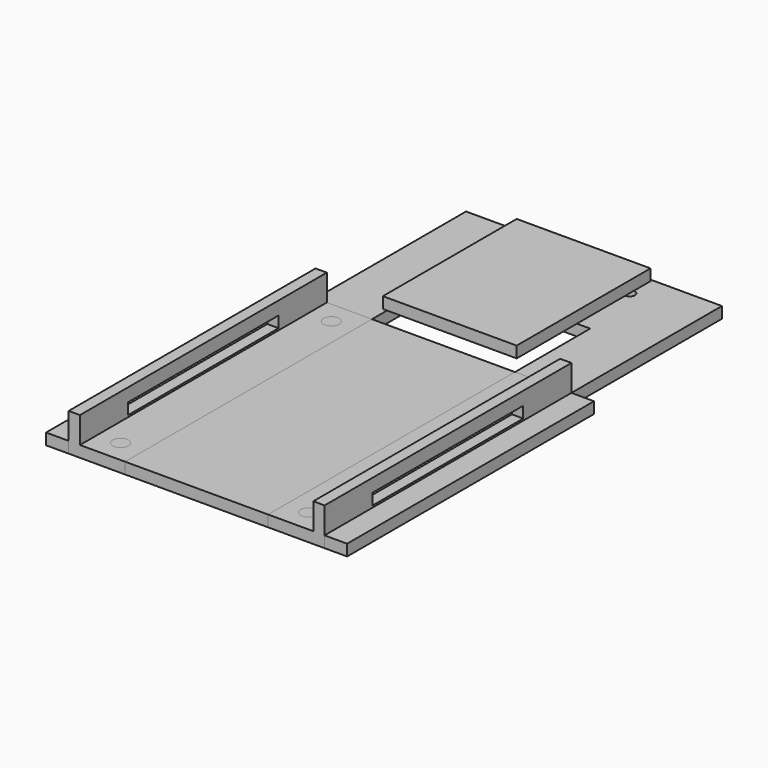
from build123d import *

# Parameters (mm, degrees)
BOX006_W          = 80
BOX006_H          = 82
BOX006_DEPTH      = 3
BOX008_W          = 35.56
BOX008_H          = 44.45
BOX008_DEPTH      = 3
BOX005_W          = 3
BOX005_H          = 50
BOX005_DEPTH      = 3
BOX003_W          = 3
BOX003_H          = 82
BOX003_DEPTH      = 10
CYLINDER001_R     = 2.1
CYLINDER001_DEPTH = 3
CYLINDER003_R     = 2.1
CYLINDER003_DEPTH = 3
BOX002_W          = 15
BOX002_H          = 82
BOX002_DEPTH      = 3
CYLINDER002_R     = 2.1
CYLINDER002_DEPTH = 3
CYLINDER_R        = 2.1
CYLINDER_DEPTH    = 3
BOX_W             = 15
BOX_H             = 82
BOX_DEPTH         = 3
BOX004_W          = 3
BOX004_H          = 50
BOX004_DEPTH      = 3
BOX001_W          = 3
BOX001_H          = 82
BOX001_DEPTH      = 10
CYLINDER007_R     = 1.397
CYLINDER007_DEPTH = 3
CYLINDER006_R     = 1.397
CYLINDER006_DEPTH = 3
BOX011_W          = 17
BOX011_H          = 17
BOX011_DEPTH      = 3
CYLINDER004_R     = 2.7
CYLINDER004_DEPTH = 3
CYLINDER005_R     = 2.7
CYLINDER005_DEPTH = 3
BOX012_W          = 5.2
BOX012_H          = 5.4
BOX012_DEPTH      = 3
BOX013_W          = 5.2
BOX013_H          = 5.4
BOX013_DEPTH      = 3
BOX007_W          = 15
BOX007_H          = 50
BOX007_DEPTH      = 3
BOX009_W          = 38
BOX009_H          = 25
BOX009_DEPTH      = 3
BOX010_W          = 15
BOX010_H          = 50
BOX010_DEPTH      = 3


with BuildPart() as g366:
    # Box006 → Box006 (new body)
    with BuildSketch(Plane(origin=(-6, 0, 0), x_dir=(1, 0, 0), z_dir=(0, 0, 1))):
        with Locations((40, 41)):
            Rectangle(BOX006_W, BOX006_H)
    extrude(amount=BOX006_DEPTH)


with BuildPart() as cam:
    # Box008 → Box008 (new body)
    with BuildSketch(Plane(origin=(16.3, 84, 5), x_dir=(1, 0, 0), z_dir=(0, 0, 1))):
        with Locations((17.78, 22.225)):
            Rectangle(BOX008_W, BOX008_H)
    extrude(amount=BOX008_DEPTH)


with BuildPart() as side2_cut:
    # Box005 → Box005 (new body)
    with BuildSketch(Plane(origin=(65, 16, 3.5), x_dir=(1, 0, 0), z_dir=(0, 0, 1))):
        with Locations((1.5, 25)):
            Rectangle(BOX005_W, BOX005_H)
    extrude(amount=BOX005_DEPTH)


with BuildPart() as cut003:
    # Box003 → Box003 (new body)
    with BuildSketch(Plane(origin=(65, 0, 0), x_dir=(1, 0, 0), z_dir=(0, 0, 1))):
        with Locations((1.5, 41)):
            Rectangle(BOX003_W, BOX003_H)
    extrude(amount=BOX003_DEPTH)

    # Cut003: cut side2_cut
    add(side2_cut.part, mode=Mode.SUBTRACT)


with BuildPart() as hole2:
    # Cylinder001 → Cylinder001 (new body)
    with BuildSketch(Plane(origin=(59, 76, 0), x_dir=(1, 0, 0), z_dir=(0, 0, 1))):
        Circle(CYLINDER001_R)
    extrude(amount=CYLINDER001_DEPTH)


with BuildPart() as fusion001:
    # Cylinder003 → Cylinder003 (new body)
    with BuildSketch(Plane(origin=(59, 6, 0), x_dir=(1, 0, 0), z_dir=(0, 0, 1))):
        Circle(CYLINDER003_R)
    extrude(amount=CYLINDER003_DEPTH)

    # Fusion001: union hole2
    add(hole2.part)


with BuildPart() as fusion005:
    # Box002 → Box002 (new body)
    with BuildSketch(Plane(origin=(53, 0, 0), x_dir=(1, 0, 0), z_dir=(0, 0, 1))):
        with Locations((7.5, 41)):
            Rectangle(BOX002_W, BOX002_H)
    extrude(amount=BOX002_DEPTH)

    # Cut001: cut Fusion001
    add(fusion001.part, mode=Mode.SUBTRACT)

    # Fusion005: union Cut003
    add(cut003.part)


with BuildPart() as hole3:
    # Cylinder002 → Cylinder002 (new body)
    with BuildSketch(Plane(origin=(9, 6, 0), x_dir=(1, 0, 0), z_dir=(0, 0, 1))):
        Circle(CYLINDER002_R)
    extrude(amount=CYLINDER002_DEPTH)


with BuildPart() as fusion:
    # Cylinder → Cylinder (new body)
    with BuildSketch(Plane(origin=(9, 76, 0), x_dir=(1, 0, 0), z_dir=(0, 0, 1))):
        Circle(CYLINDER_R)
    extrude(amount=CYLINDER_DEPTH)

    # Fusion: union hole3
    add(hole3.part)


with BuildPart() as cut:
    # Box → Box (new body)
    with BuildSketch(Plane.XY):
        with Locations((7.5, 41)):
            Rectangle(BOX_W, BOX_H)
    extrude(amount=BOX_DEPTH)

    # Cut: cut Fusion
    add(fusion.part, mode=Mode.SUBTRACT)


with BuildPart() as side1_cut:
    # Box004 → Box004 (new body)
    with BuildSketch(Plane(origin=(0, 16, 3.5), x_dir=(1, 0, 0), z_dir=(0, 0, 1))):
        with Locations((1.5, 25)):
            Rectangle(BOX004_W, BOX004_H)
    extrude(amount=BOX004_DEPTH)


with BuildPart() as fusion006:
    # Box001 → Box001 (new body)
    with BuildSketch(Plane.XY):
        with Locations((1.5, 41)):
            Rectangle(BOX001_W, BOX001_H)
    extrude(amount=BOX001_DEPTH)

    # Cut002: cut side1_cut
    add(side1_cut.part, mode=Mode.SUBTRACT)

    # Fusion006: union Cut
    add(cut.part)


with BuildPart() as cylinder007:
    # Cylinder007 → Cylinder007 (new body)
    with BuildSketch(Plane(origin=(49.508, 124.5, 0), x_dir=(1, 0, 0), z_dir=(0, 0, 1))):
        Circle(CYLINDER007_R)
    extrude(amount=CYLINDER007_DEPTH)


with BuildPart() as hole1:
    # Cylinder006 → Cylinder006 (new body)
    with BuildSketch(Plane(origin=(18.508, 124.5, 0), x_dir=(1, 0, 0), z_dir=(0, 0, 1))):
        Circle(CYLINDER006_R)
    extrude(amount=CYLINDER006_DEPTH)


with BuildPart() as obj1:
    # Box011 → Box011 (new body)
    with BuildSketch(Plane(origin=(25, 110, 0), x_dir=(1, 0, 0), z_dir=(0, 0, 1))):
        with Locations((8.5, 8.5)):
            Rectangle(BOX011_W, BOX011_H)
    extrude(amount=BOX011_DEPTH)


with BuildPart() as obj2:
    # Cylinder004 → Cylinder004 (new body)
    with BuildSketch(Plane(origin=(23, 118.5, 0), x_dir=(1, 0, 0), z_dir=(0, 0, 1))):
        Circle(CYLINDER004_R)
    extrude(amount=CYLINDER004_DEPTH)


with BuildPart() as obj3:
    # Cylinder005 → Cylinder005 (new body)
    with BuildSketch(Plane(origin=(44, 118.5, 0), x_dir=(1, 0, 0), z_dir=(0, 0, 1))):
        Circle(CYLINDER005_R)
    extrude(amount=CYLINDER005_DEPTH)


with BuildPart() as obj4:
    # Box012 → Box012 (new body)
    with BuildSketch(Plane(origin=(23, 115.8, 0), x_dir=(1, 0, 0), z_dir=(0, 0, 1))):
        with Locations((2.6, 2.7)):
            Rectangle(BOX012_W, BOX012_H)
    extrude(amount=BOX012_DEPTH)


with BuildPart() as fusion007:
    # Box013 → Box013 (new body)
    with BuildSketch(Plane(origin=(39, 115.8, 0), x_dir=(1, 0, 0), z_dir=(0, 0, 1))):
        with Locations((2.6, 2.7)):
            Rectangle(BOX013_W, BOX013_H)
    extrude(amount=BOX013_DEPTH)

    # Fusion007: union Cylinder007, Hole1, obj1, obj2, obj3, obj4
    add(cylinder007.part)
    add(hole1.part)
    add(obj1.part)
    add(obj2.part)
    add(obj3.part)
    add(obj4.part)


with BuildPart() as obj5:
    # Box007 → Box007 (new body)
    with BuildSketch(Plane(origin=(0, 82, 0), x_dir=(1, 0, 0), z_dir=(0, 0, 1))):
        with Locations((7.5, 25)):
            Rectangle(BOX007_W, BOX007_H)
    extrude(amount=BOX007_DEPTH)


with BuildPart() as box009:
    # Box009 → Box009 (new body)
    with BuildSketch(Plane(origin=(15, 107, 0), x_dir=(1, 0, 0), z_dir=(0, 0, 1))):
        with Locations((19, 12.5)):
            Rectangle(BOX009_W, BOX009_H)
    extrude(amount=BOX009_DEPTH)


with BuildPart() as cut004:
    # Box010 → Box010 (new body)
    with BuildSketch(Plane(origin=(53, 82, 0), x_dir=(1, 0, 0), z_dir=(0, 0, 1))):
        with Locations((7.5, 25)):
            Rectangle(BOX010_W, BOX010_H)
    extrude(amount=BOX010_DEPTH)

    # Fusion003: union obj5, Box009
    add(obj5.part)
    add(box009.part)

    # Cut004: cut Fusion007
    add(fusion007.part, mode=Mode.SUBTRACT)


solid = Compound([g366.part, cam.part, fusion005.part, fusion006.part, cut004.part])
